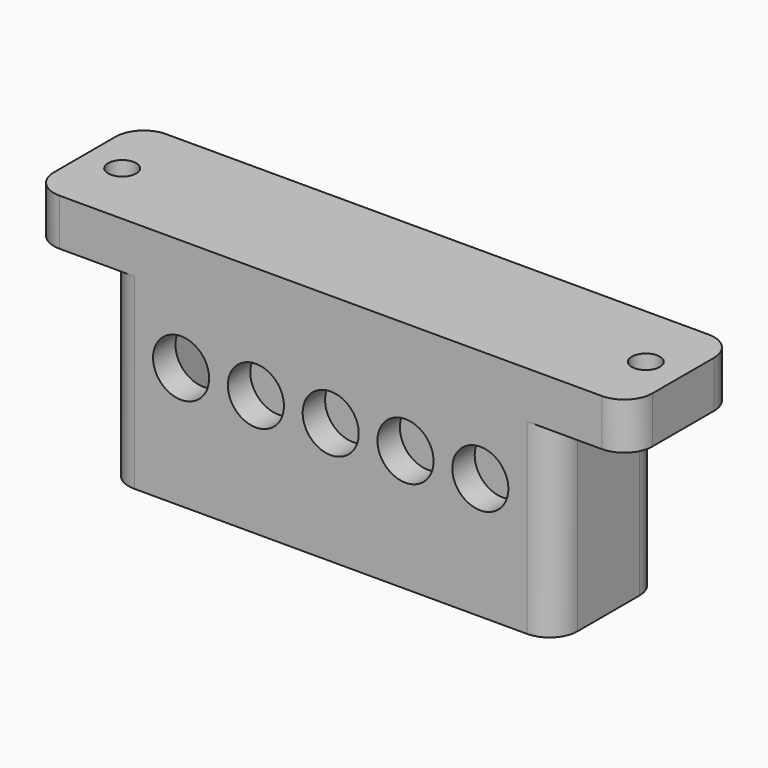
from build123d import *

# Parameters (mm, degrees)
F0_W     = 42
F0_H     = 8.25
F1_DEPTH = 5
F2_DEPTH = 20
F3_R     = 3
F4_DEPTH = 25
F5_D     = 3


with BuildPart() as f1:
    # F0 (on Top) → F1 (new body)
    with BuildSketch(Plane.XY):
        with BuildLine():
            ThreePointArc((-24, 4.125), (-23.12132, 6.24632), (-21, 7.125))
            Line((-21, 7.125), (-29, 7.125))
            ThreePointArc((-29, 7.125), (-31.12132, 6.24632), (-32, 4.125))
            Line((-32, 4.125), (-32, -4.125))
            ThreePointArc((-32, -4.125), (-31.12132, -6.24632), (-29, -7.125))
            Line((-29, -7.125), (-21, -7.125))
            ThreePointArc((-21, -7.125), (-23.12132, -6.24632), (-24, -4.125))
            Line((-24, -4.125), (-24, 4.125))
        make_face()
        with BuildLine():
            ThreePointArc((24, 4.125), (23.12132, 6.24632), (21, 7.125))
            Line((21, 7.125), (-21, 7.125))
            ThreePointArc((-21, 7.125), (-23.12132, 6.24632), (-24, 4.125))
            Line((-24, 4.125), (-24, -4.125))
            ThreePointArc((-24, -4.125), (-23.12132, -6.24632), (-21, -7.125))
            Line((-21, -7.125), (21, -7.125))
            ThreePointArc((21, -7.125), (23.12132, -6.24632), (24, -4.125))
            Line((24, -4.125), (24, 4.125))
        make_face()
        Rectangle(F0_W, F0_H, mode=Mode.SUBTRACT)
        with BuildLine():
            Line((29, 7.125), (21, 7.125))
            ThreePointArc((21, 7.125), (23.12132, 6.24632), (24, 4.125))
            Line((24, 4.125), (24, -4.125))
            ThreePointArc((24, -4.125), (23.12132, -6.24632), (21, -7.125))
            Line((21, -7.125), (29, -7.125))
            ThreePointArc((29, -7.125), (31.12132, -6.24632), (32, -4.125))
            Line((32, -4.125), (32, 4.125))
            ThreePointArc((32, 4.125), (31.12132, 6.24632), (29, 7.125))
        make_face()
        Rectangle(F0_W, F0_H)
    extrude(amount=F1_DEPTH)

    # F0 (on Top) → F2 (join)
    with BuildSketch(Plane.XY):
        with BuildLine():
            ThreePointArc((24, 4.125), (23.12132, 6.24632), (21, 7.125))
            Line((21, 7.125), (-21, 7.125))
            ThreePointArc((-21, 7.125), (-23.12132, 6.24632), (-24, 4.125))
            Line((-24, 4.125), (-24, -4.125))
            ThreePointArc((-24, -4.125), (-23.12132, -6.24632), (-21, -7.125))
            Line((-21, -7.125), (21, -7.125))
            ThreePointArc((21, -7.125), (23.12132, -6.24632), (24, -4.125))
            Line((24, -4.125), (24, 4.125))
        make_face()
        Rectangle(F0_W, F0_H, mode=Mode.SUBTRACT)
    extrude(amount=-F2_DEPTH)

    # F3 (on face) → F4 (cut)
    with BuildSketch(Plane(origin=(0, 7.125, 0), x_dir=(-1, 0, 0), z_dir=(0, 1, 0))):
        with Locations((-16, -7)):
            Circle(F3_R)
        with Locations((-8, -7)):
            Circle(F3_R)
        with Locations((0, -7)):
            Circle(F3_R)
        with Locations((8, -7)):
            Circle(F3_R)
        with Locations((16, -7)):
            Circle(F3_R)
    extrude(amount=-F4_DEPTH, mode=Mode.SUBTRACT)

    # F5 (through all)
    with Locations(Plane(origin=(0, 0, 0), x_dir=(1, 0, 0), z_dir=(0, 0, -1))):
        with Locations((28, 0), (-28, 0)):
            Hole(F5_D / 2)


solid = f1.part
